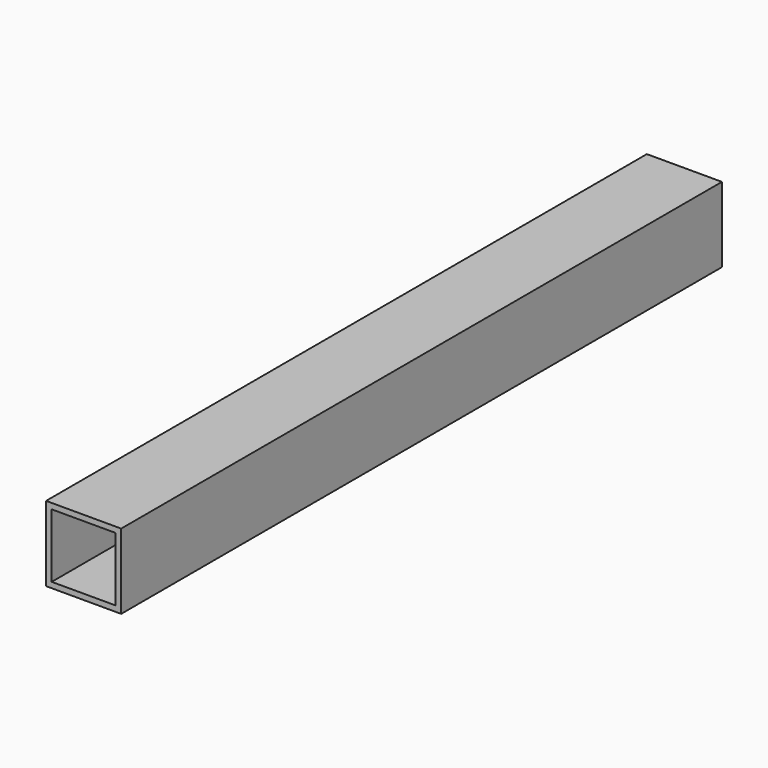
from build123d import *

# Parameters (mm, degrees)
SKETCH_W   = 40
SKETCH_H   = 40
SKETCH_W_2 = 34
SKETCH_H_2 = 34
PAD_DEPTH  = 400


with BuildPart() as part:
    # Sketch → Pad (new body)
    with BuildSketch(Plane.XZ):
        Rectangle(SKETCH_W, SKETCH_H)
        Rectangle(SKETCH_W_2, SKETCH_H_2, mode=Mode.SUBTRACT)
    extrude(amount=PAD_DEPTH)


solid = part.part
